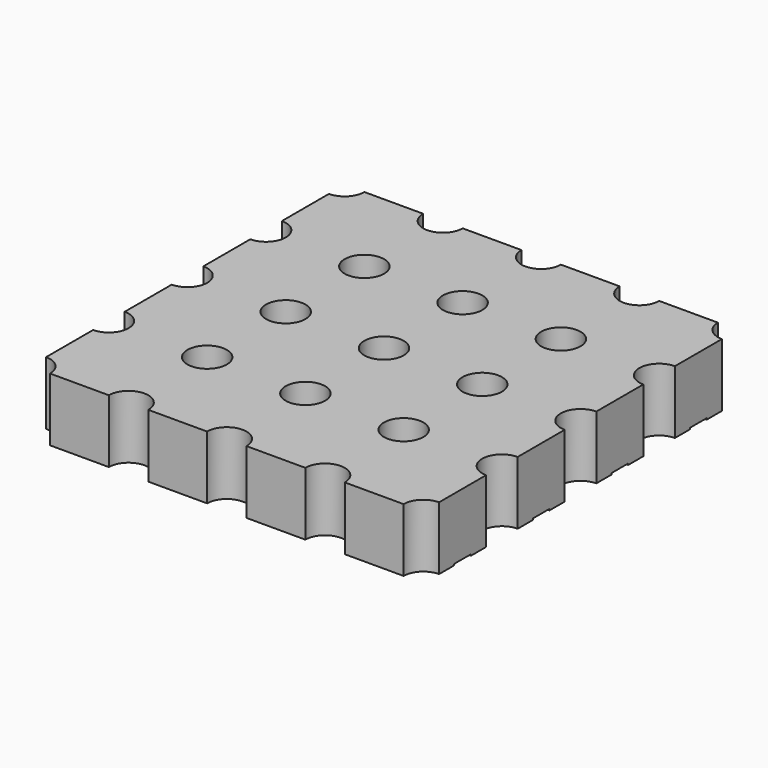
from build123d import *

# Parameters (mm, degrees)
CYLINDER_R       = 0.51
CYLINDER_DEPTH   = 3.2
ARRAY001_X_COUNT = 5
ARRAY001_X_PITCH = 2.54
ARRAY001_Y_COUNT = 5
ARRAY001_Y_PITCH = 2.54
BOX002_W         = 10.16
BOX002_H         = 1
BOX002_DEPTH     = 0.035
ARRAY002_Y_COUNT = 2
ARRAY002_Y_PITCH = 9.16
BOX001_W         = 10.16
BOX001_H         = 2
BOX001_DEPTH     = 0.035
ARRAY_Y_COUNT    = 3
ARRAY_Y_PITCH    = 2.54
BOX_W            = 10.16
BOX_H            = 10.16
BOX_DEPTH        = 1.6


with BuildPart() as arraycylinders:
    # Cylinder → Cylinder (new body)
    with BuildSketch(Plane.XY.offset(-0.8)):
        Circle(CYLINDER_R)
    extrude(amount=CYLINDER_DEPTH)

    # Array001 X: ArrayCylinders ×5


with BuildPart() as arraycylinders_1:
    add(arraycylinders.part)
    with Locations(*[(i * ARRAY001_X_PITCH, 0, 0) for i in range(1, ARRAY001_X_COUNT)]):
        add(arraycylinders.part)

    # Array001 Y: ArrayCylinders ×5


with BuildPart() as arraycylinders_2:
    add(arraycylinders_1.part)
    with Locations(*[(0, i * ARRAY001_Y_PITCH, 0) for i in range(1, ARRAY001_Y_COUNT)]):
        add(arraycylinders_1.part)


with BuildPart() as array002:
    # Box002 → Box002 (new body)
    with BuildSketch(Plane.XY.offset(-0.035)):
        with Locations((5.08, 0.5)):
            Rectangle(BOX002_W, BOX002_H)
    extrude(amount=BOX002_DEPTH)

    # Array002 Y: Array002 ×2


with BuildPart() as array002_1:
    add(array002.part)
    with Locations(*[(0, i * ARRAY002_Y_PITCH, 0) for i in range(1, ARRAY002_Y_COUNT)]):
        add(array002.part)


with BuildPart() as fusion:
    # Box001 → Box001 (new body)
    with BuildSketch(Plane(origin=(0, 1.54, -0.035), x_dir=(1, 0, 0), z_dir=(0, 0, 1))):
        with Locations((5.08, 1)):
            Rectangle(BOX001_W, BOX001_H)
    extrude(amount=BOX001_DEPTH)

    # Array Y: Fusion ×3


with BuildPart() as fusion_1:
    add(fusion.part)
    with Locations(*[(0, i * ARRAY_Y_PITCH, 0) for i in range(1, ARRAY_Y_COUNT)]):
        add(fusion.part)

    # Fusion: union Array002
    add(array002_1.part)


with BuildPart() as cut:
    # Box → Box (new body)
    with BuildSketch(Plane.XY):
        with Locations((5.08, 5.08)):
            Rectangle(BOX_W, BOX_H)
    extrude(amount=BOX_DEPTH)

    # Fusion001: union Fusion
    add(fusion_1.part)

    # Cut: cut ArrayCylinders
    add(arraycylinders_2.part, mode=Mode.SUBTRACT)


solid = cut.part
